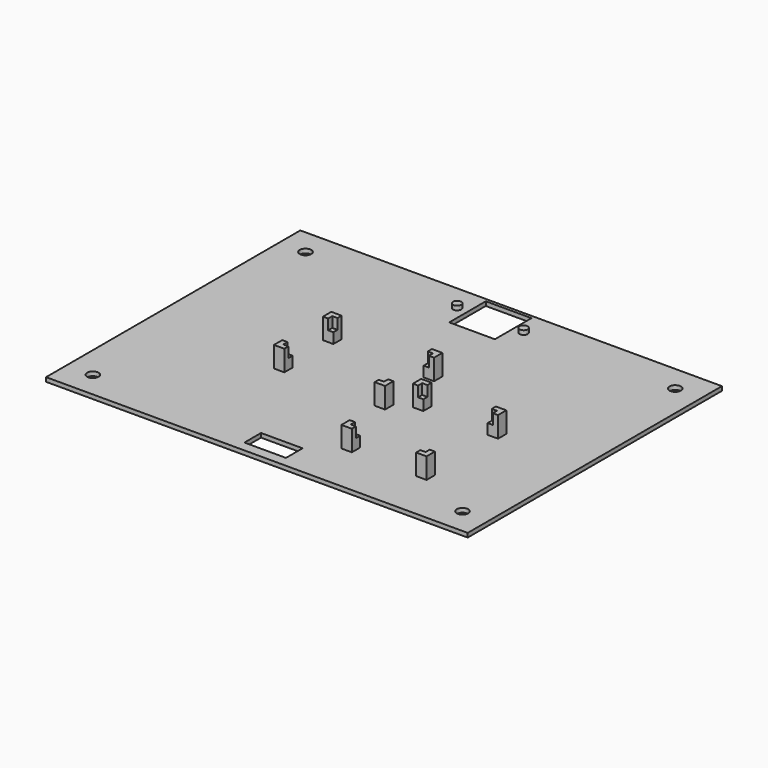
from build123d import *

# Parameters (mm, degrees)
SKETCH_W        = 203
SKETCH_H        = 153
PAD_DEPTH       = 2
SKETCH002_W     = 20
SKETCH002_H     = 10
SKETCH002_W_2   = 22
SKETCH002_H_2   = 22
POCKET001_DEPTH = 2
SKETCH001_R     = 2.75
POCKET_DEPTH    = 2
SKETCH003_R     = 2
PAD001_DEPTH    = 2
SKETCH005_W     = 5
SKETCH005_H     = 5
PAD003_DEPTH    = 10
SKETCH006_W     = 2.5
SKETCH006_H     = 2.5
POCKET002_DEPTH = 5
SKETCH007_W     = 5
SKETCH007_H     = 5
PAD004_DEPTH    = 10
SKETCH008_W     = 2.5
SKETCH008_H     = 2.5
POCKET003_DEPTH = 5


with BuildPart() as part:
    # Sketch (on DatumPlane) → Pad (new body)
    with BuildSketch(Plane.XY.offset(-2)):
        Rectangle(SKETCH_W, SKETCH_H)
    extrude(amount=PAD_DEPTH)

    # Sketch002 (on DatumPlane) → Pocket001 (cut)
    with BuildSketch(Plane.XY):
        with Locations((0, -66.5)):
            Rectangle(SKETCH002_W, SKETCH002_H)
        with Locations((0, 64)):
            Rectangle(SKETCH002_W_2, SKETCH002_H_2)
    extrude(amount=-POCKET001_DEPTH, mode=Mode.SUBTRACT)

    # Sketch001 (on DatumPlane) → Pocket (cut)
    with BuildSketch(Plane.XY):
        with Locations((89, 64)):
            Circle(SKETCH001_R)
        with Locations((89, -64)):
            Circle(SKETCH001_R)
        with Locations((-89, -64)):
            Circle(SKETCH001_R)
        with Locations((-89, 64)):
            Circle(SKETCH001_R)
    extrude(amount=-POCKET_DEPTH, mode=Mode.SUBTRACT)

    # Sketch003 (on DatumPlane) → Pad001 (join)
    with BuildSketch(Plane.XY):
        with Locations((-16, 64)):
            Circle(SKETCH003_R)
        with Locations((16, 64)):
            Circle(SKETCH003_R)
    extrude(amount=PAD001_DEPTH)

    # Sketch005 (on DatumPlane) → Pad003 (join)
    with BuildSketch(Plane.XY):
        with Locations((-36.5, 14.5)):
            Rectangle(SKETCH005_W, SKETCH005_H)
        with Locations((12, 14.5)):
            Rectangle(SKETCH005_W, SKETCH005_H)
        with Locations((-36.5, -15)):
            Rectangle(SKETCH005_W, SKETCH005_H)
        with Locations((12, -15)):
            Rectangle(SKETCH005_W, SKETCH005_H)
    extrude(amount=PAD003_DEPTH)

    # Sketch006 (on Face39 of Pad003) → Pocket002 (cut)
    with BuildSketch(Plane.XY.offset(10)):
        with Locations((-35.25, 13.25)):
            Rectangle(SKETCH006_W, SKETCH006_H)
        with Locations((10.75, 13.25)):
            Rectangle(SKETCH006_W, SKETCH006_H)
        with Locations((10.75, -13.75)):
            Rectangle(SKETCH006_W, SKETCH006_H)
        with Locations((-35.25, -13.75)):
            Rectangle(SKETCH006_W, SKETCH006_H)
    extrude(amount=-POCKET002_DEPTH, mode=Mode.SUBTRACT)

    # Sketch007 (on DatumPlane) → Pad004 (join)
    with BuildSketch(Plane.XY):
        with Locations((24, -7)):
            Rectangle(SKETCH007_W, SKETCH007_H)
        with Locations((60, -7)):
            Rectangle(SKETCH007_W, SKETCH007_H)
        with Locations((24, -50)):
            Rectangle(SKETCH007_W, SKETCH007_H)
        with Locations((60, -50)):
            Rectangle(SKETCH007_W, SKETCH007_H)
    extrude(amount=PAD004_DEPTH)

    # Sketch008 (on Face63 of Pad004) → Pocket003 (cut)
    with BuildSketch(Plane.XY.offset(10)):
        with Locations((25.25, -8.25)):
            Rectangle(SKETCH008_W, SKETCH008_H)
        with Locations((58.75, -8.25)):
            Rectangle(SKETCH008_W, SKETCH008_H)
        with Locations((25.25, -48.75)):
            Rectangle(SKETCH008_W, SKETCH008_H)
        with Locations((58.75, -48.75)):
            Rectangle(SKETCH008_W, SKETCH008_H)
    extrude(amount=-POCKET003_DEPTH, mode=Mode.SUBTRACT)


solid = part.part
